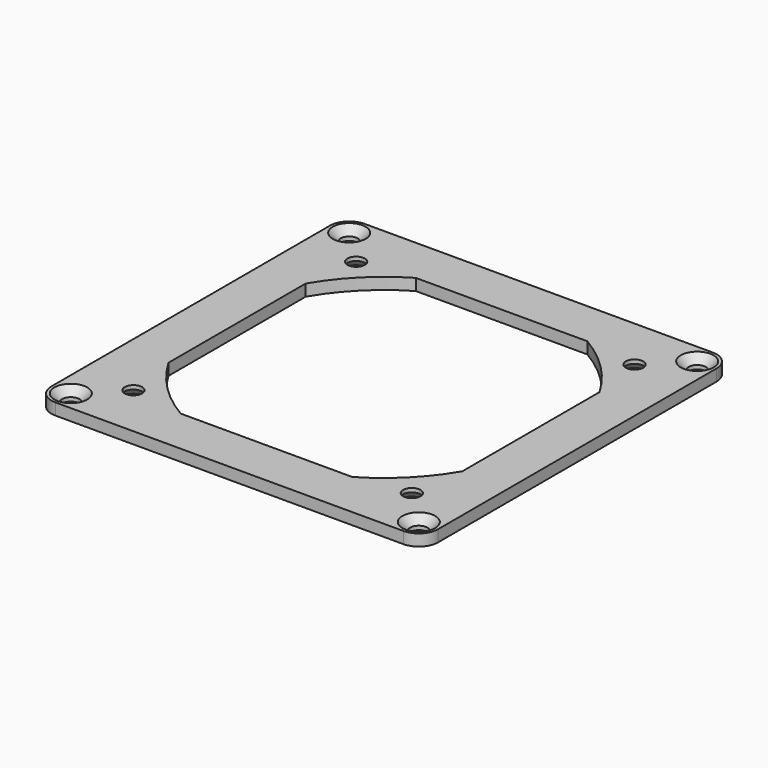
from build123d import *

# Parameters (mm, degrees)
F0_W     = 100
F0_H     = 100
F0_R     = 2.25
F1_DEPTH = 3
F2_R     = 5
F3_SIZE  = 2


with BuildPart() as f1:
    # F0 (on Top) → F1 (new body)
    with BuildSketch(Plane.XY):
        with Locations((50, 50)):
            Rectangle(F0_W, F0_H)
        with Locations((5, 5)):
            Circle(F0_R, mode=Mode.SUBTRACT)
        with Locations((14, 14)):
            Circle(F0_R, mode=Mode.SUBTRACT)
        with Locations((95, 5)):
            Circle(F0_R, mode=Mode.SUBTRACT)
        with Locations((86, 14)):
            Circle(F0_R, mode=Mode.SUBTRACT)
        with Locations((14, 86)):
            Circle(F0_R, mode=Mode.SUBTRACT)
        with Locations((5, 95)):
            Circle(F0_R, mode=Mode.SUBTRACT)
        with BuildLine():
            Line((72.181073, 12), (27.818927, 12))
            ThreePointArc((27.818927, 12), (18.887302, 18.887302), (12, 27.818927))
            Line((12, 27.818927), (12, 72.181073))
            ThreePointArc((12, 72.181073), (18.887302, 81.112698), (27.818927, 88))
            Line((27.818927, 88), (72.181073, 88))
            ThreePointArc((72.181073, 88), (81.112698, 81.112698), (88, 72.181073))
            Line((88, 72.181073), (88, 27.818927))
            ThreePointArc((88, 27.818927), (81.112698, 18.887302), (72.181073, 12))
        make_face(mode=Mode.SUBTRACT)
        with Locations((86, 86)):
            Circle(F0_R, mode=Mode.SUBTRACT)
        with Locations((95, 95)):
            Circle(F0_R, mode=Mode.SUBTRACT)
    extrude(amount=F1_DEPTH)

    # F2
    f2_edges = [f1.edges().sort_by_distance(p)[0] for p in [
        (100, 0, 1.5),
        (100, 100, 1.5),
        (0, 0, 1.5),
        (0, 100, 1.5),
    ]]
    fillet(f2_edges, radius=F2_R)

    # F3
    f3_edges = [f1.edges().sort_by_distance(p)[0] for p in [
        (2.75, 95, 3),
        (2.75, 5, 3),
        (92.75, 5, 3),
        (92.75, 95, 3),
        (11.75, 86, 0),
        (11.75, 14, 0),
        (83.75, 14, 0),
        (83.75, 86, 0),
    ]]
    chamfer(f3_edges, length=F3_SIZE)


solid = f1.part
